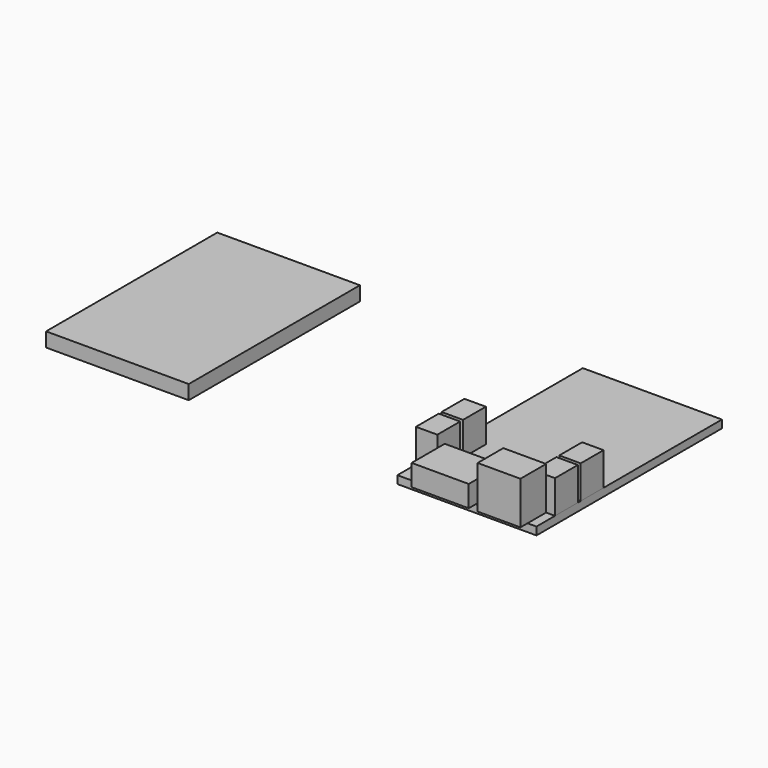
from build123d import *

# Parameters (mm, degrees)
F0_W     = 3
F0_H     = 4
F0_H_2   = 3.25
F0_W_2   = 1.25
F1_DEPTH = 1.1
F2_START = 1.1
F0_W_3   = 8
F0_H_3   = 1.25
F2_DEPTH = 3
F3_START = 1.1
F3_DEPTH = 4.65
F4_START = 1.1
F0_W_4   = 6
F4_DEPTH = 6
F5_W     = 20
F5_H     = 30
F6_DEPTH = 2


with BuildPart() as f1:
    # F0 (on Top) → F1 (new body)
    with BuildSketch(Plane.XY):
        Polygon((9.75, 16.25), (-9.75, 16.25), (-9.75, -4.5), (-6.75, -4.5), (-6.75, -8.5), (-9.75, -8.5), (-9.75, -9), (-6.75, -9), (-6.75, -11.7), (1.25, -11.7), (1.25, -16.25), (2.5, -16.25), (2.5, -13), (6.75, -13), (6.75, -9), (9.75, -9), (9.75, -8.5), (6.75, -8.5), (6.75, -4.5), (9.75, -4.5), align=None)
        with Locations((-8.25, -6.5)):
            Rectangle(F0_W, F0_H)
        Polygon((-6.75, -9), (-9.75, -9), (-9.75, -13), (-6.75, -13), (-6.75, -11.7), align=None)
        with Locations((-8.25, -14.625)):
            Rectangle(F0_W, F0_H_2)
        Polygon((-6.75, -11.7), (-6.75, -13), (-6.75, -16.25), (1.25, -16.25), (1.25, -11.7), align=None)
        Polygon((8.5, -16.25), (8.5, -13), (6.75, -13), (2.5, -13), (2.5, -16.25), align=None)
        with Locations((9.125, -14.625)):
            Rectangle(F0_W_2, F0_H_2)
        Polygon((9.75, -13), (9.75, -9), (6.75, -9), (6.75, -13), (8.5, -13), align=None)
        with Locations((8.25, -6.5)):
            Rectangle(F0_W, F0_H)
    extrude(amount=F1_DEPTH)


with BuildPart() as f2:
    # F0 (on Top) → F2 (new body)
    with BuildSketch(Plane.XY.offset(F2_START)):
        Polygon((-6.75, -11.7), (-6.75, -13), (-6.75, -16.25), (1.25, -16.25), (1.25, -11.7), align=None)
        with Locations((-2.75, -16.875)):
            Rectangle(F0_W_3, F0_H_3)
    extrude(amount=F2_DEPTH)


with BuildPart() as f3:
    # F0 (on Top) → F3 (new body)
    with BuildSketch(Plane.XY.offset(F3_START)):
        Polygon((-6.75, -9), (-9.75, -9), (-9.75, -13), (-6.75, -13), (-6.75, -11.7), align=None)
    extrude(amount=F3_DEPTH)


with BuildPart() as f3b:
    # F0 (on Top) → F3, piece 2 (new body)
    with BuildSketch(Plane.XY.offset(F3_START)):
        with Locations((-8.25, -6.5)):
            Rectangle(F0_W, F0_H)
    extrude(amount=F3_DEPTH)


with BuildPart() as f3c:
    # F0 (on Top) → F3, piece 3 (new body)
    with BuildSketch(Plane.XY.offset(F3_START)):
        Polygon((9.75, -13), (9.75, -9), (6.75, -9), (6.75, -13), (8.5, -13), align=None)
    extrude(amount=F3_DEPTH)


with BuildPart() as f3d:
    # F0 (on Top) → F3, piece 4 (new body)
    with BuildSketch(Plane.XY.offset(F3_START)):
        with Locations((8.25, -6.5)):
            Rectangle(F0_W, F0_H)
    extrude(amount=F3_DEPTH)


with BuildPart() as f4:
    # F0 (on Top) → F4 (new body)
    with BuildSketch(Plane.XY.offset(F4_START)):
        Polygon((8.5, -16.25), (8.5, -13), (6.75, -13), (2.5, -13), (2.5, -16.25), align=None)
        with Locations((5.5, -16.875)):
            Rectangle(F0_W_4, F0_H_3)
    extrude(amount=F4_DEPTH)


with BuildPart() as f6:
    # F5 (on Top) → F6 (new body)
    with BuildSketch(Plane.XY):
        with Locations((-50, 0)):
            Rectangle(F5_W, F5_H)
    extrude(amount=F6_DEPTH)


solid = Compound([f1.part, f2.part, f3.part, f3b.part, f3c.part, f3d.part, f4.part, f6.part])
